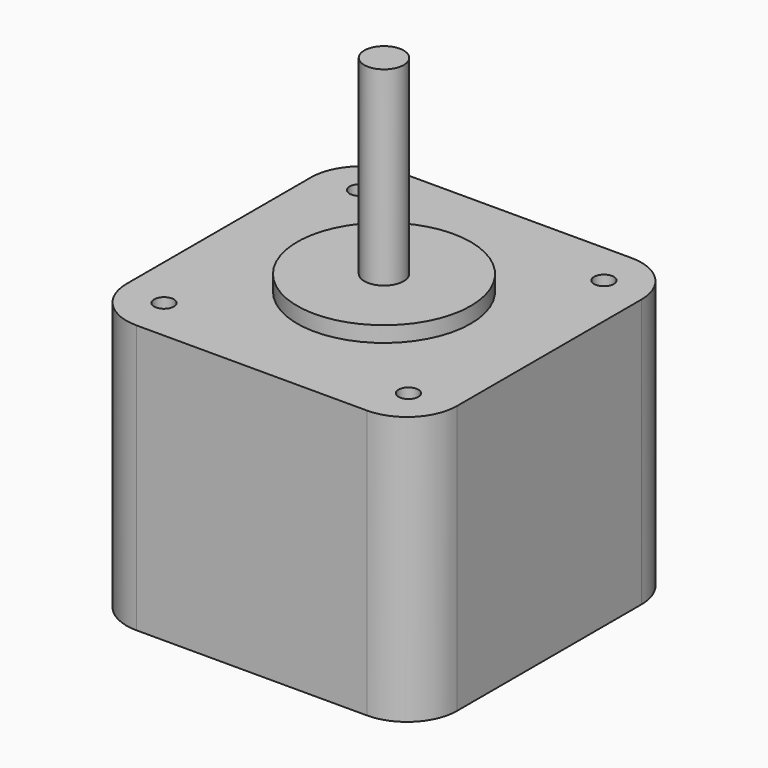
from build123d import *

# Parameters (mm, degrees)
F0_W     = 41.91
F0_H     = 41.91
F1_DEPTH = 34.036
F2_R     = 1.25
F3_DEPTH = 3.556
F4_R     = 6.35
F5_R     = 10.9982
F6_DEPTH = 1.9812
F7_R     = 2.50063
F8_DEPTH = 24.13


with BuildPart() as f1:
    # F0 (on Top) → F1 (new body)
    with BuildSketch(Plane.XY):
        Rectangle(F0_W, F0_H)
    extrude(amount=F1_DEPTH)

    # F2 (on face) → F3 (cut)
    with BuildSketch(Plane.XY.offset(34.036)):
        with Locations((15.494, -15.494)):
            Circle(F2_R)
        with Locations((15.494, 15.494)):
            Circle(F2_R)
        with Locations((-15.494, 15.494)):
            Circle(F2_R)
        with Locations((-15.494, -15.494)):
            Circle(F2_R)
    extrude(amount=-F3_DEPTH, mode=Mode.SUBTRACT)

    # F4
    f4_edges = [f1.edges().sort_by_distance(p)[0] for p in [
        (-20.955, -20.955, 17.018),
        (20.955, -20.955, 17.018),
        (20.955, 20.955, 17.018),
        (-20.955, 20.955, 17.018),
    ]]
    fillet(f4_edges, radius=F4_R)

    # F5 (on face) → F6 (join)
    with BuildSketch(Plane.XY.offset(34.036)):
        Circle(F5_R)
    extrude(amount=F6_DEPTH)

    # F7 (on face) → F8 (join)
    with BuildSketch(Plane.XY.offset(36.0172)):
        Circle(F7_R)
    extrude(amount=F8_DEPTH)


solid = f1.part
